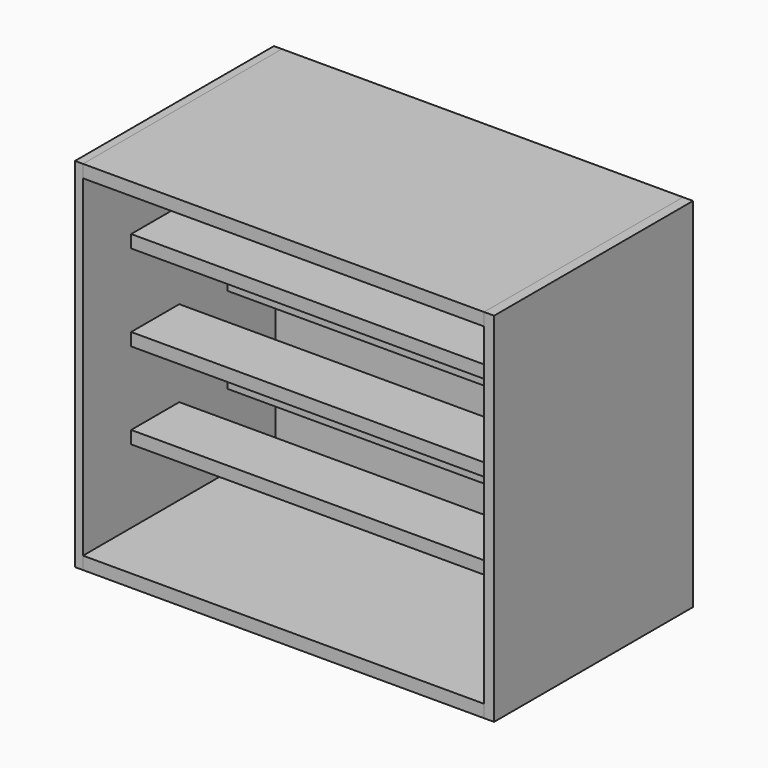
from build123d import *

# Parameters (mm, degrees)
F0_W     = 360
F0_H     = 19
F1_DEPTH = 600
F2_W     = 90
F2_H     = 19
F3_DEPTH = 600
F4_W     = 372
F4_H     = 535
F5_DEPTH = 12
F6_W     = 372
F6_H     = 535
F7_DEPTH = 15


with BuildPart() as f1:
    # F0 (on Right) → F1 (new body)
    with BuildSketch(Plane.YZ):
        with Locations((-180, 9.5)):
            Rectangle(F0_W, F0_H)
    extrude(amount=F1_DEPTH)


with BuildPart() as f3:
    # F2 (on Right) → F3 (new body)
    with BuildSketch(Plane.YZ):
        Polygon((-90, 129), (0, 129), (0, 0), (12, 0), (12, 535), (0, 535), (-360, 535), (-360, 516), (0, 516), (0, 406), (-90, 406), (-90, 387), (0, 387), (0, 277), (-90, 277), (-90, 258), (0, 258), (0, 148), (-90, 148), align=None)
        with Locations((-225, 138.5)):
            Rectangle(F2_W, F2_H)
        with Locations((-225, 267.5)):
            Rectangle(F2_W, F2_H)
        with Locations((-225, 396.5)):
            Rectangle(F2_W, F2_H)
    extrude(amount=F3_DEPTH)


with BuildPart() as f5:
    # F4 (on Right) → F5 (new body)
    with BuildSketch(Plane.YZ):
        with Locations((-174, 267.5)):
            Rectangle(F4_W, F4_H)
    extrude(amount=-F5_DEPTH)


with BuildPart() as f7:
    # F6 (on face) → F7 (new body)
    with BuildSketch(Plane.YZ.offset(600)):
        with Locations((-174, 267.5)):
            Rectangle(F6_W, F6_H)
    extrude(amount=F7_DEPTH)


solid = Compound([f1.part, f3.part, f5.part, f7.part])
